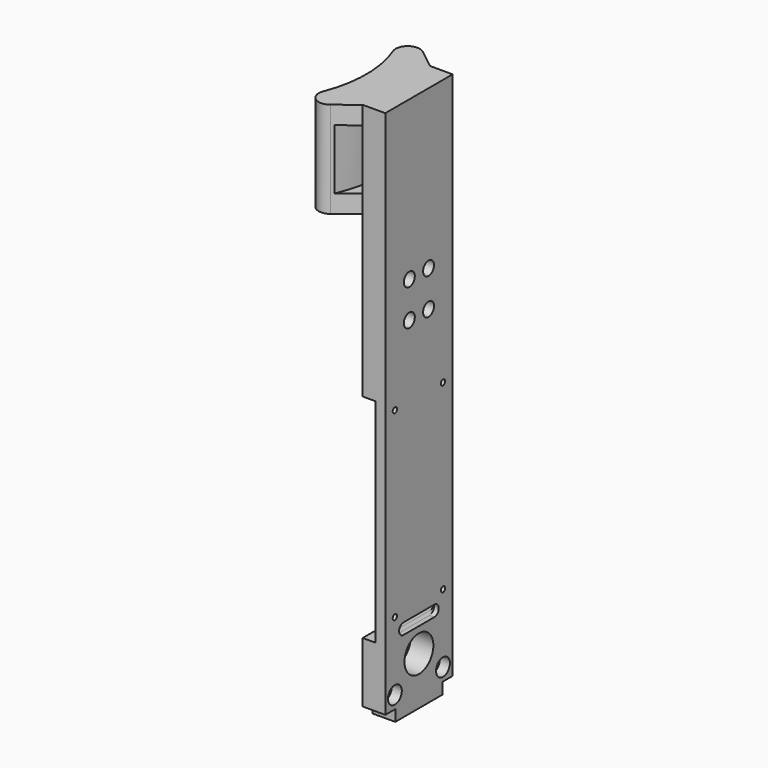
from build123d import *

# Parameters (mm, degrees)
SKETCH022_R         = 7.5
SKETCH022_R_2       = 1.125
PAD002_DEPTH        = 9.4
HOLE007_D           = 4
HOLE007_CBORE_D     = 7.2
HOLE007_CBORE_DEPTH = 4.2
POCKET005_DEPTH     = 5
PAD003_DEPTH        = 40
POCKET006_DEPTH     = 12.5
SKETCH030_W         = 35
SKETCH030_H         = 88.4
POCKET008_DEPTH     = 5.3
POCKET009_DEPTH     = 8
HOLE008_D           = 3
HOLE008_CBORE_D     = 5.7
HOLE008_CBORE_DEPTH = 7.3
SKETCH037_W         = 24.504541
SKETCH037_H         = 35.450562
PAD004_DEPTH        = 0.2
SKETCH038_R         = 4.614907
SKETCH038_R_2       = 4.035565
PAD005_DEPTH        = 0.2


with BuildPart() as part:
    # Sketch022 → Pad002 (new body)
    with BuildSketch(Plane.YZ.offset(62.5)):
        Polygon((-17.5, 225), (-17.5, 4.7), (-12.3, 4.7), (-12.3, 0), (12.3, 0), (12.3, 4.7), (17.5, 4.7), (17.5, 225), align=None)
        with Locations((0, 20)):
            Circle(SKETCH022_R, mode=Mode.SUBTRACT)
        with Locations((-12.5, 114.2)):
            Circle(SKETCH022_R_2, mode=Mode.SUBTRACT)
        with Locations((12.5, 114.2)):
            Circle(SKETCH022_R_2, mode=Mode.SUBTRACT)
        with Locations((-12.5, 38.45)):
            Circle(SKETCH022_R_2, mode=Mode.SUBTRACT)
        with Locations((12.5, 38.45)):
            Circle(SKETCH022_R_2, mode=Mode.SUBTRACT)
        with BuildLine():
            ThreePointArc((-8, 34.7), (-10.3, 32.4), (-8, 30.1))
            Line((-8, 30.1), (8, 30.1))
            ThreePointArc((8, 30.1), (10.3, 32.4), (8, 34.7))
            Line((-8, 34.7), (8, 34.7))
        make_face(mode=Mode.SUBTRACT)
    extrude(amount=PAD002_DEPTH)

    # Hole007 (through all)
    with Locations(Plane.YZ.offset(71.9)):
        with Locations((-12.5, 10), (12.5, 10)):
            CounterBoreHole(HOLE007_D / 2, HOLE007_CBORE_D / 2, HOLE007_CBORE_DEPTH)

    # Sketch026 → Pocket005 (cut)
    with BuildSketch(Plane.YZ.offset(69.9)):
        with BuildLine():
            ThreePointArc((-10.8, 34.75), (-13.15, 32.4), (-10.8, 30.05))
            Line((-10.8, 30.05), (10.8, 30.05))
            ThreePointArc((10.8, 30.05), (13.15, 32.4), (10.8, 34.75))
            Line((-10.8, 34.75), (10.8, 34.75))
        make_face()
    extrude(amount=-POCKET005_DEPTH, mode=Mode.SUBTRACT)

    # Sketch027 → Pad003 (join)
    with BuildSketch(Plane.XY.offset(225)):
        with BuildLine():
            ThreePointArc((46.577049, -18.181818), (50, 0), (46.577049, 18.181818))
            ThreePointArc((54.326085, 23.929844), (48.25594, 24.015802), (46.577049, 18.181818))
            Line((54.326085, 23.929844), (62.5, 17.5))
            Line((62.5, 17.5), (62.5, -17.5))
            Line((62.5, -17.5), (54.326085, -23.929844))
            ThreePointArc((46.577049, -18.181818), (48.25594, -24.015802), (54.326085, -23.929844))
        make_face()
    extrude(amount=-PAD003_DEPTH)

    # Sketch028 → Pocket006 (cut, symmetric)
    with BuildSketch(Plane.XY.offset(205)):
        with BuildLine():
            ThreePointArc((51.961524, -30), (60, 0), (51.961524, 30))
            Line((51.961524, 30), (62.5, 30))
            Line((62.5, 30), (62.5, -30))
            Line((62.5, -30), (51.961524, -30))
        make_face()
    extrude(amount=POCKET006_DEPTH, both=True, mode=Mode.SUBTRACT)

    # Sketch030 → Pocket008 (cut)
    with BuildSketch(Plane.YZ.offset(62.5)):
        with Locations((0, 74)):
            Rectangle(SKETCH030_W, SKETCH030_H)
    extrude(amount=POCKET008_DEPTH, mode=Mode.SUBTRACT)

    # Sketch031 → Pocket009 (cut)
    with BuildSketch(Plane.YZ.offset(62.5)):
        with BuildLine():
            ThreePointArc((13.845935, 107.277863), (12.783162, 108.340636), (11.720389, 107.277863))
            Line((11.720389, 107.277863), (11.720389, 84.030329))
            ThreePointArc((11.720389, 84.030329), (12.783162, 82.967556), (13.845935, 84.030329))
            Line((13.845935, 107.277863), (13.845935, 84.030329))
        make_face()
        with BuildLine():
            ThreePointArc((-13.393928, 109.875952), (-14.456701, 108.813179), (-13.393928, 107.750406))
            Line((-13.393928, 107.750406), (6.990506, 107.750406))
            ThreePointArc((6.990506, 107.750406), (8.053279, 108.813179), (6.990506, 109.875952))
            Line((-13.393928, 109.875952), (6.990506, 109.875952))
        make_face()
        with BuildLine():
            ThreePointArc((-13.495995, 94.718798), (-14.558768, 93.656025), (-13.495995, 92.593252))
            Line((-13.495995, 92.593252), (6.969508, 92.593252))
            ThreePointArc((6.969508, 92.593252), (8.032281, 93.656025), (6.969508, 94.718798))
            Line((-13.495995, 94.718798), (6.969508, 94.718798))
        make_face()
    extrude(amount=POCKET009_DEPTH, mode=Mode.SUBTRACT)

    # Hole008 (through all)
    with Locations(Plane.YZ.offset(71.9)):
        with Locations((-5, 159.1), (5, 159.1), (5, 144.1), (-5, 144.1)):
            CounterBoreHole(HOLE008_D / 2, HOLE008_CBORE_D / 2, HOLE008_CBORE_DEPTH)

    # Sketch037 → Pad004 (join)
    with BuildSketch(Plane.YZ.offset(65.5)):
        with Locations((0.536986, 148.472748)):
            Rectangle(SKETCH037_W, SKETCH037_H)
    extrude(amount=-PAD004_DEPTH)

    # Sketch038 → Pad005 (join)
    with BuildSketch(Plane.YZ.offset(67.7)):
        with Locations((-12.580344, 9.907605)):
            Circle(SKETCH038_R)
        with Locations((12.421253, 10.075215)):
            Circle(SKETCH038_R_2)
    extrude(amount=-PAD005_DEPTH)


solid = part.part
